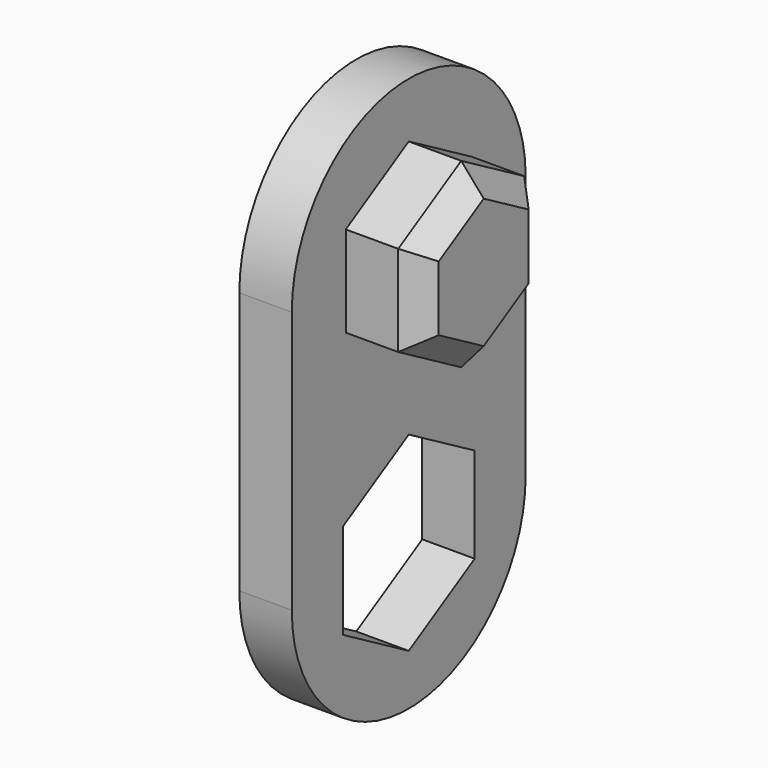
from build123d import *

# Parameters (mm, degrees)
F0_W     = 3.9
F0_H     = 3.5
F1_DEPTH = 0.7
F3_DEPTH = 1
F4_SIZE  = 0.3
F6_DEPTH = 0.7


with BuildPart() as f1:
    # F0 (on Right) → F1 (new body)
    with BuildSketch(Plane.YZ):
        Rectangle(F0_W, F0_H)
        with BuildLine():
            Line((-1.95, 1.75), (1.95, 1.75))
            ThreePointArc((1.95, 1.75), (0, 3.7), (-1.95, 1.75))
        make_face()
        with BuildLine():
            ThreePointArc((-1.95, -1.75), (0, -3.7), (1.95, -1.75))
            Line((1.95, -1.75), (-1.95, -1.75))
        make_face()
    extrude(amount=F1_DEPTH)

    # F2 (on face) → F3 (join)
    with BuildSketch(Plane.YZ.offset(0.7)):
        Polygon((1.05, 1.143782), (1.05, 2.356218), (0, 2.962436), (-1.05, 2.356218), (-1.05, 1.143782), (0, 0.537564), align=None)
    extrude(amount=F3_DEPTH)

    # F4
    f4_edges = [f1.edges().sort_by_distance(p)[0] for p in [
        (1.7, -0.525, 2.659327),
        (1.7, 0.525, 2.659327),
        (1.7, 1.05, 1.75),
        (1.7, 0.525, 0.840673),
        (1.7, -0.525, 0.840673),
        (1.7, -1.05, 1.75),
    ]]
    chamfer(f4_edges, length=F4_SIZE)

    # F5 (on face) → F6 (cut, through all)
    with BuildSketch(Plane(origin=(0, 0, 0), x_dir=(0, -1, 0), z_dir=(-1, 0, 0))):
        Polygon((1.1, -2.385085), (1.1, -1.114915), (0, -0.479829), (-1.1, -1.114915), (-1.1, -2.385085), (0, -3.020171), align=None)
    extrude(amount=-F6_DEPTH, mode=Mode.SUBTRACT)


solid = f1.part
